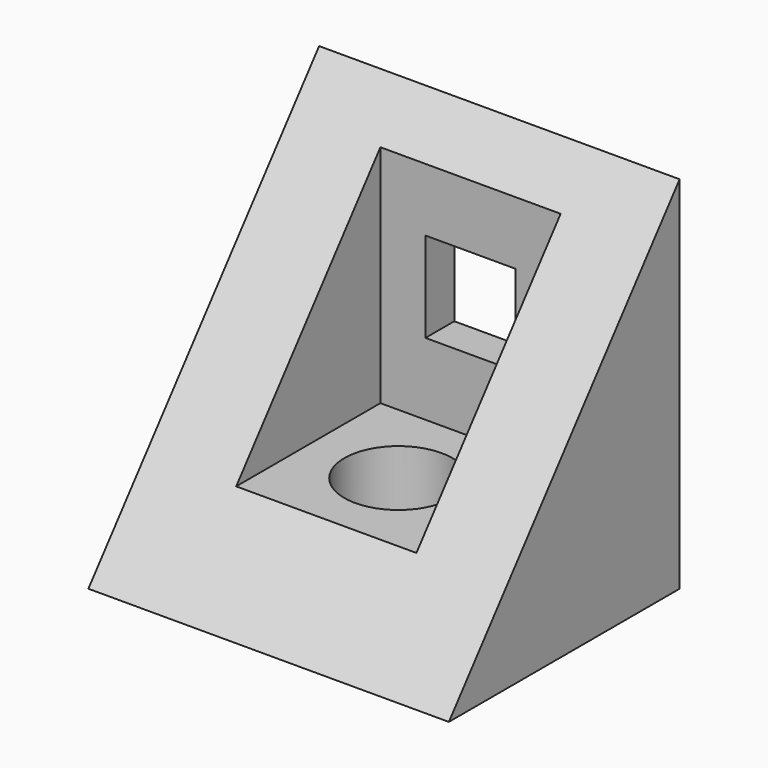
from build123d import *

# Parameters (mm, degrees)
F3_DEPTH = 127
F1_W     = 127
F1_H     = 127
F1_R     = 38.1
F4_DEPTH = 194.818
F5_DEPTH = 63.5
F6_DEPTH = 281.432
F7_DEPTH = 672.592
F0_W     = 63.5
F0_H     = 63.5
F8_DEPTH = 261.874


with BuildPart() as f3:
    # F2 (on Right) → F3 (new body, symmetric)
    with BuildSketch(Plane.YZ):
        Polygon((-101.6, -127), (101.6, -127), (101.6, 127), align=None)
    extrude(amount=F3_DEPTH, both=True)

    # F1 (on Top) → F4 (cut)
    with BuildSketch(Plane.XY):
        with Locations((0, 12.7)):
            Rectangle(F1_W, F1_H)
        with Locations((0, 12.7)):
            Circle(F1_R, mode=Mode.SUBTRACT)
    extrude(amount=F4_DEPTH, mode=Mode.SUBTRACT)

    # F1 (on Top) → F5 (cut)
    with BuildSketch(Plane.XY):
        with Locations((0, 12.7)):
            Rectangle(F1_W, F1_H)
        with Locations((0, 12.7)):
            Circle(F1_R, mode=Mode.SUBTRACT)
    extrude(amount=-F5_DEPTH, mode=Mode.SUBTRACT)

    # F1 (on Top) → F6 (cut)
    with BuildSketch(Plane.XY):
        with Locations((0, 12.7)):
            Circle(F1_R)
    extrude(amount=-F6_DEPTH, mode=Mode.SUBTRACT)

    # F1 (on Top) → F7 (cut)
    with BuildSketch(Plane.XY):
        with Locations((0, 12.7)):
            Circle(F1_R)
    extrude(amount=F7_DEPTH, mode=Mode.SUBTRACT)

    # F0 (on Front) → F8 (cut)
    with BuildSketch(Plane.XZ):
        with Locations((0, 19.05)):
            Rectangle(F0_W, F0_H)
    extrude(amount=-F8_DEPTH, mode=Mode.SUBTRACT)


solid = f3.part
